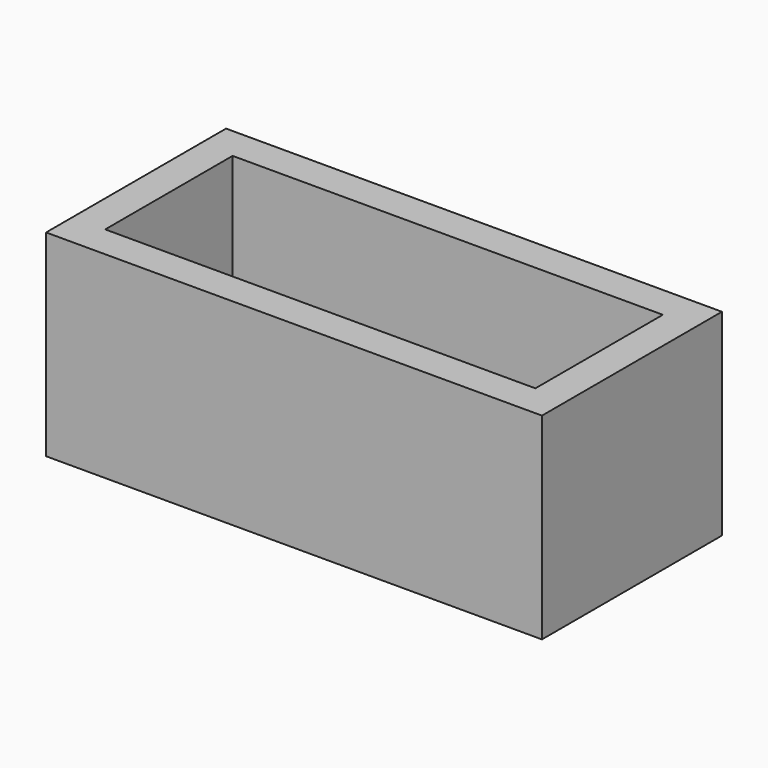
from build123d import *

# Parameters (mm, degrees)
F0_W     = 15.1
F0_H     = 6.85
F0_W_2   = 13.1
F0_H_2   = 4.85
F1_DEPTH = 5
F2_DEPTH = 1


with BuildPart() as f1:
    # F0 (on Top) → F1 (new body)
    with BuildSketch(Plane.XY):
        Rectangle(F0_W, F0_H)
        Rectangle(F0_W_2, F0_H_2, mode=Mode.SUBTRACT)
    extrude(amount=F1_DEPTH)

    # F0 (on Top) → F2 (join)
    with BuildSketch(Plane.XY):
        Rectangle(F0_W, F0_H)
        Rectangle(F0_W_2, F0_H_2, mode=Mode.SUBTRACT)
        Rectangle(F0_W_2, F0_H_2)
    extrude(amount=-F2_DEPTH)


solid = f1.part
